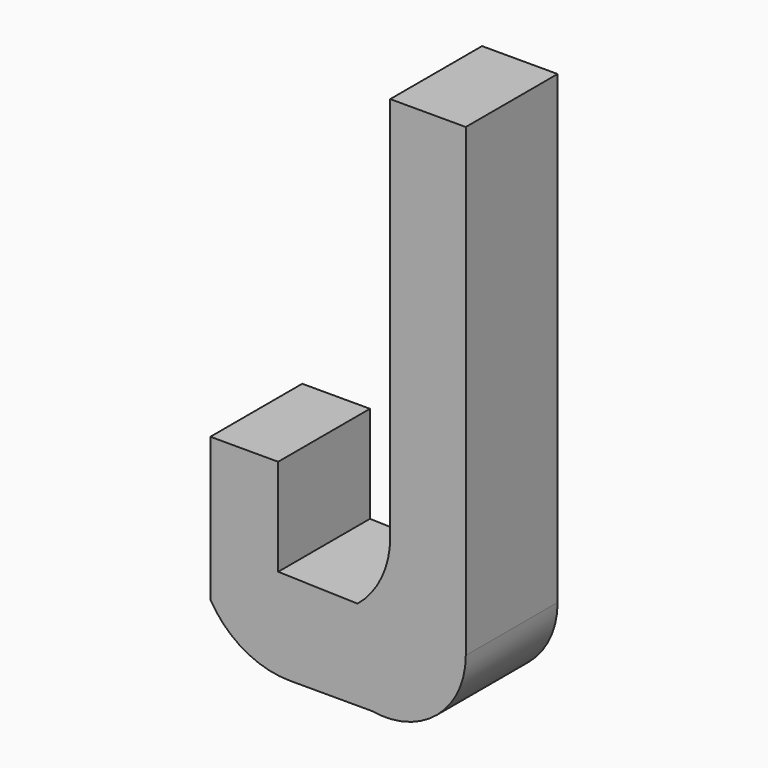
from build123d import *

# Parameters (mm, degrees)
F1_DEPTH = 25.4


with BuildPart() as f1:
    # F0 (on Front) → F1 (new body)
    with BuildSketch(Plane.XZ):
        with BuildLine():
            Line((20.83143, -50.817162), (20.83143, 52.114621))
            Line((20.83143, 52.114621), (4.108622, 52.114621))
            Line((4.108622, 52.114621), (4.108622, -33.229381))
            ThreePointArc((4.108622, -33.229381), (2.216165, -41.677333), (-3.099486, -48.51057))
            Line((-3.099486, -48.51057), (-20.687271, -48.032784))
            Line((-20.687271, -48.032784), (-20.687271, -26.597919))
            Line((-20.687271, -26.597919), (-35.680134, -26.597919))
            Line((-35.680134, -26.597919), (-35.680134, -58.313597))
            ThreePointArc((-35.680134, -58.313597), (-28.23096, -65.702922), (-18.092353, -68.40495))
            Line((-18.092353, -68.40495), (0, -68.40495))
            ThreePointArc((0, -68.40495), (14.500121, -64.448732), (20.83143, -50.817162))
        make_face()
    extrude(amount=F1_DEPTH)


solid = f1.part
